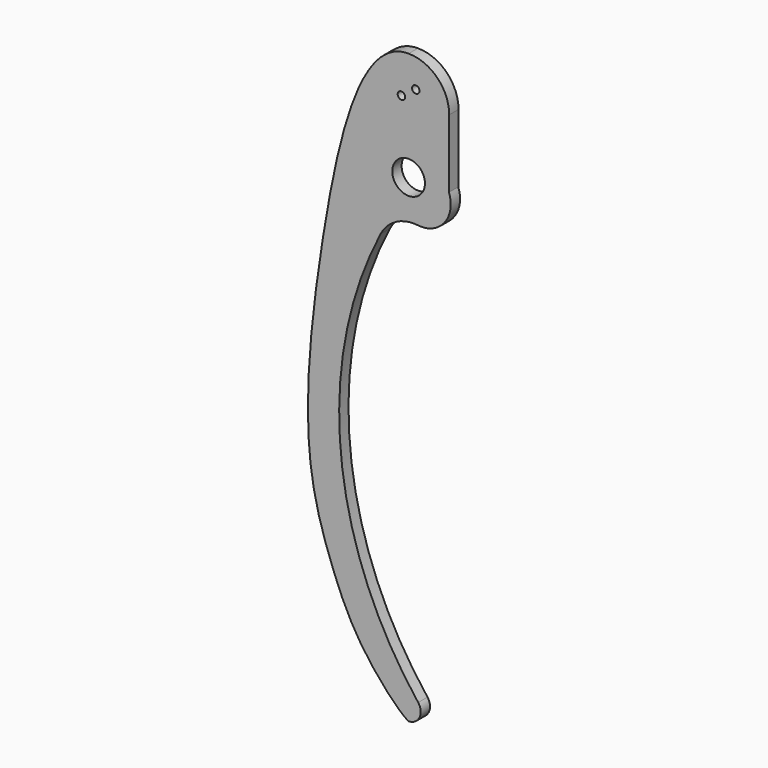
from build123d import *

# Parameters (mm, degrees)
F0_R     = 4.445
F0_R_2   = 1.016
F1_DEPTH = 3.175


with BuildPart() as f1:
    # F0 (on Front) → F1 (new body)
    with BuildSketch(Plane.XZ):
        with BuildLine():
            Line((10.9859360382, 0), (11.0431610233, 18.5670308747))
            ThreePointArc((11.0431610233, 18.5670308747), (7.8207553667, 26.3977550832), (0, 29.6442802009))
            add(Edge.make_bspline(
                [(0, 29.6442802009), (-13.2085497305, 29.7476304527), (-25.1583041159, -23.8181494401), (-29.4519353818, -74.4164457422), (-21.1754381718, -99.8457187554), (-13.6279014694, -117.1784798673), (-2.3025634412, -129.2099436442), (0, -130.302)],
                knots=[0, 0, 0, 0, 0.2581998199, 0.5237379093, 0.6974604026, 0.8551414365, 1, 1, 1, 1], degree=3))
            ThreePointArc((0, -130.302), (2.9677379768, -128.4476654658), (2.6022360876, -124.9673732894))
            ThreePointArc((2.6022360876, -124.9673732894), (-18.4526676867, -71.9977321023), (-7.62, -16.0357345395))
            ThreePointArc((-7.62, -16.0357345395), (-3.3837079244, -11.7521923839), (2.54, -10.6546549701))
            ThreePointArc((2.54, -10.6546549701), (9.74702858, -7.6927897832), (10.9859360382, 0))
        make_face()
        Circle(F0_R, mode=Mode.SUBTRACT)
        with Locations((-1.9506058055, 18.9541711109)):
            Circle(F0_R_2, mode=Mode.SUBTRACT)
        with Locations((1.9506058055, 21.6858288891)):
            Circle(F0_R_2, mode=Mode.SUBTRACT)
    extrude(amount=F1_DEPTH)


solid = f1.part
